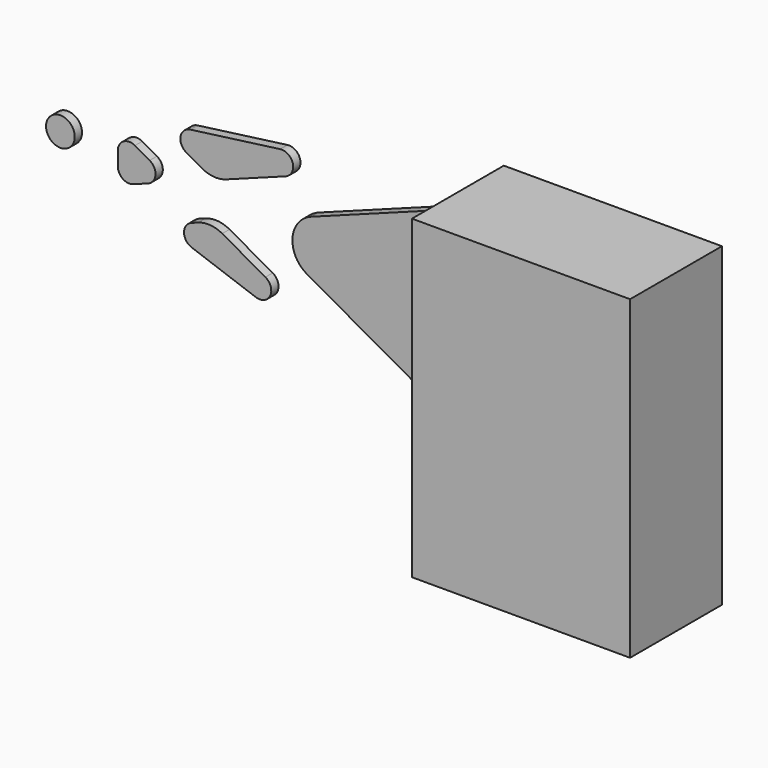
from build123d import *

# Parameters (mm, degrees)
F0_R     = 5
F0_R_2   = 2
F1_DEPTH = 3.175
F2_W     = 76
F2_H     = 110
F3_DEPTH = 40


with BuildPart() as f1:
    # F0 (on Front) → F1 (new body)
    with BuildSketch(Plane.XZ):
        with Locations((-192.5, 37)):
            Circle(F0_R)
        with Locations((-26, 62)):
            Circle(F0_R_2)
        with Locations((-26, -18)):
            Circle(F0_R_2)
        with BuildLine():
            ThreePointArc((-166.539484, 41.141899), (-170.519645, 41.107984), (-172.5, 37.6553))
            Line((-172.5, 37.6553), (-172.5, 32.853158))
            ThreePointArc((-172.5, 32.853158), (-170.784715, 29.569855), (-167.109962, 29.102452))
            Line((-167.109962, 29.102452), (-161.962461, 31.010152))
            ThreePointArc((-161.962461, 31.010152), (-159.364868, 34.446534), (-161.391983, 38.247457))
            Line((-161.391983, 38.247457), (-166.539484, 41.141899))
        make_face()
        with BuildLine():
            Line((-38, 16.8221), (-38, 35.412461))
            ThreePointArc((-38, 35.412461), (-46.576423, 51.828974), (-64.95019, 54.16599))
            Line((-64.95019, 54.16599), (-105.131645, 39.274461))
            ThreePointArc((-105.131645, 39.274461), (-111.625628, 30.683505), (-106.55784, 21.181197))
            Line((-106.55784, 21.181197), (-67.80258, -0.610898))
            ThreePointArc((-67.80258, -0.610898), (-47.901773, -0.441324), (-38, 16.8221))
        make_face()
        with BuildLine():
            Line((-148.665773, 44.858501), (-143.139082, 41.750841))
            ThreePointArc((-143.139082, 41.750841), (-139.023601, 40.498263), (-134.762697, 41.090575))
            Line((-134.762697, 41.090575), (-114.000415, 48.785223))
            ThreePointArc((-114.000415, 48.785223), (-111.508912, 53.502181), (-115.921039, 56.500583))
            Line((-115.921039, 56.500583), (-147.235842, 52.309754))
            ThreePointArc((-147.235842, 52.309754), (-150.633576, 49.098963), (-148.665773, 44.858501))
        make_face()
        with BuildLine():
            Line((-121.06485, 15.571498), (-136.107493, 24.029981))
            ThreePointArc((-136.107493, 24.029981), (-140.222974, 25.282559), (-144.483878, 24.690246))
            Line((-144.483878, 24.690246), (-146.810607, 23.827944))
            ThreePointArc((-146.810607, 23.827944), (-149.420496, 20.052988), (-146.765027, 16.309954))
            Line((-146.765027, 16.309954), (-124.369825, 8.317614))
            ThreePointArc((-124.369825, 8.317614), (-119.385368, 10.426462), (-121.06485, 15.571498))
        make_face()
        with BuildLine():
            ThreePointArc((-14, 57), (-14.239085, 56.460968), (-14.502367, 55.933333))
            ThreePointArc((-14.502367, 55.933333), (-13.766296, 56.712698), (-12.733501, 57))
            Line((-12.733501, 57), (-14, 57))
        make_face()
        with BuildLine():
            ThreePointArc((-12.733501, -13), (-13.766296, -12.712698), (-14.502367, -11.933333))
            ThreePointArc((-14.502367, -11.933333), (-14.239085, -12.460968), (-14, -13))
            Line((-14, -13), (-12.733501, -13))
        make_face()
        with BuildLine():
            ThreePointArc((-19.066667, -7.003233), (-19.75119, -6.277514), (-20, -5.311422))
            Line((-20, -5.311422), (-20, -6.467437))
            ThreePointArc((-20, -6.467437), (-19.527787, -6.725673), (-19.066667, -7.003233))
        make_face()
        with BuildLine():
            ThreePointArc((-19.066667, 51.003233), (-19.527787, 50.725673), (-20, 50.467437))
            Line((-20, 50.467437), (-20, 49.311422))
            ThreePointArc((-20, 49.311422), (-19.75119, 50.277514), (-19.066667, 51.003233))
        make_face()
    extrude(amount=-F1_DEPTH)


with BuildPart() as f3:
    # F2 (on Front) → F3 (new body)
    with BuildSketch(Plane.XZ):
        with Locations((0, 21.784008)):
            Rectangle(F2_W, F2_H)
    extrude(amount=F3_DEPTH)


solid = Compound([f1.part, f3.part])
